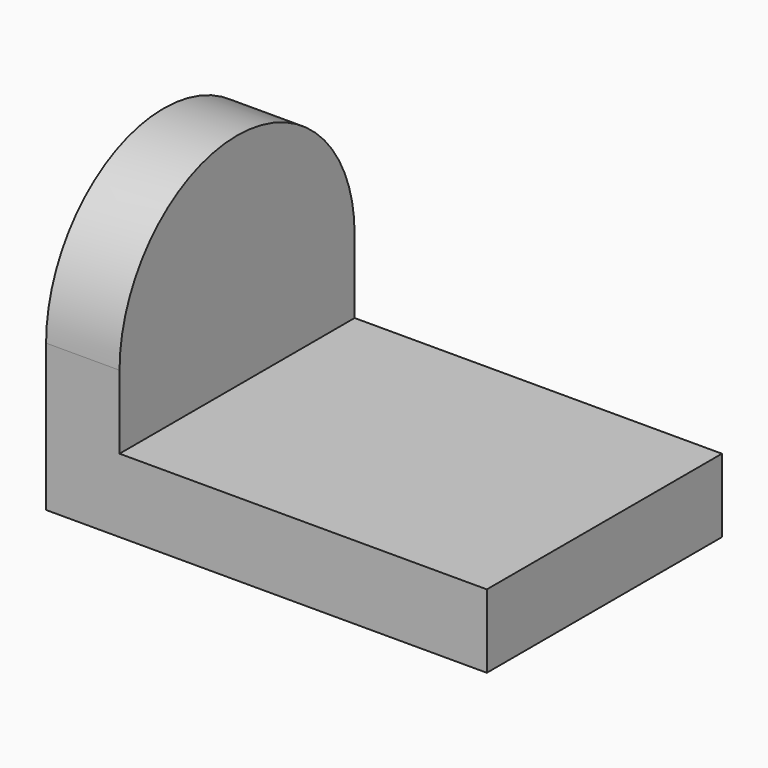
from build123d import *

# Parameters (mm, degrees)
F0_W     = 38.1
F0_H     = 25.4
F1_DEPTH = 6.35
F3_DEPTH = 6.35


with BuildPart() as f1:
    # F0 (on Top) → F1 (new body)
    with BuildSketch(Plane.XY):
        with Locations((19.05, 12.7)):
            Rectangle(F0_W, F0_H)
    extrude(amount=F1_DEPTH)

    # F2 (on Right) → F3 (join)
    with BuildSketch(Plane.YZ):
        with BuildLine():
            Line((0, 12.7), (0, 6.35))
            Line((0, 6.35), (25.4, 6.35))
            Line((25.4, 6.35), (25.4, 12.7))
            ThreePointArc((25.4, 12.7), (12.7, 25.4), (0, 12.7))
        make_face()
    extrude(amount=F3_DEPTH)


solid = f1.part
